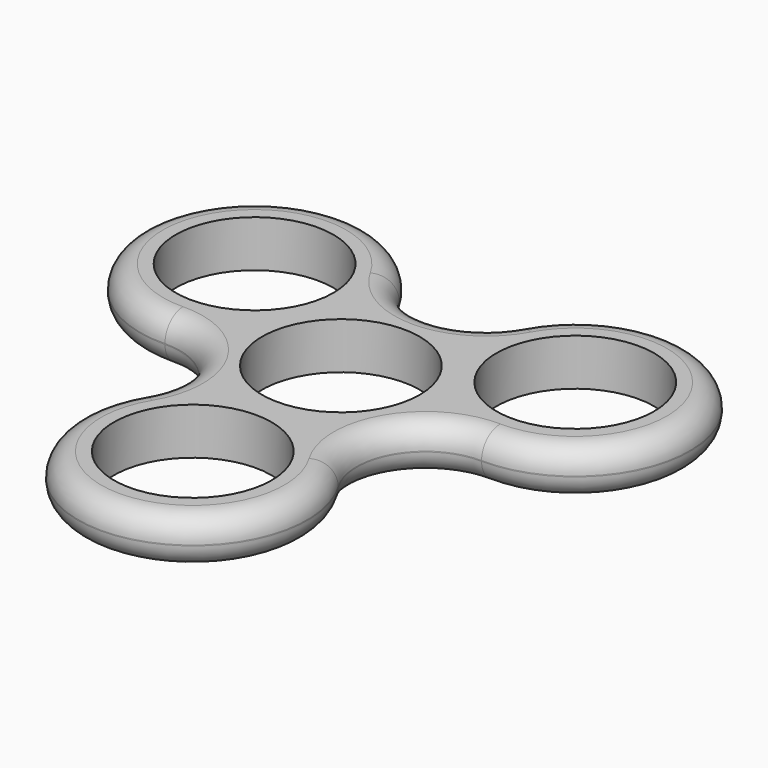
from build123d import *

# Parameters (mm, degrees)
F0_R     = 10.922
F1_DEPTH = 6.477
F2_R     = 3.175
F3_R     = 3.175


with BuildPart() as f1:
    # F0 (on Top) → F1 (new body)
    with BuildSketch(Plane.XY):
        with BuildLine():
            ThreePointArc((8.331381, 20.521464), (0, 15.613142), (-8.331381, 20.521464))
            ThreePointArc((-8.331381, 20.521464), (-35.965169, 20.7645), (-21.937799, -3.045544))
            ThreePointArc((-21.937799, -3.045544), (-13.521377, -7.806571), (-13.606418, -17.475919))
            ThreePointArc((-13.606418, -17.475919), (0, -41.529), (13.606418, -17.475919))
            ThreePointArc((13.606418, -17.475919), (13.521377, -7.806571), (21.937799, -3.045544))
            ThreePointArc((21.937799, -3.045544), (35.965169, 20.7645), (8.331381, 20.521464))
        make_face()
        with Locations((0, -25.654)):
            Circle(F0_R, mode=Mode.SUBTRACT)
        with Locations((-22.217016, 12.827)):
            Circle(F0_R, mode=Mode.SUBTRACT)
        Circle(F0_R, mode=Mode.SUBTRACT)
        with Locations((22.217016, 12.827)):
            Circle(F0_R, mode=Mode.SUBTRACT)
    extrude(amount=F1_DEPTH)

    # F2
    f2_edges = [f1.edges().sort_by_distance(p)[0] for p in [
        (-35.965169, 20.7645, 6.477),
    ]]
    fillet(f2_edges, radius=F2_R)

    # F3
    f3_edges = [f1.edges().sort_by_distance(p)[0] for p in [
        (0, -41.529, 0),
    ]]
    fillet(f3_edges, radius=F3_R)


solid = f1.part
